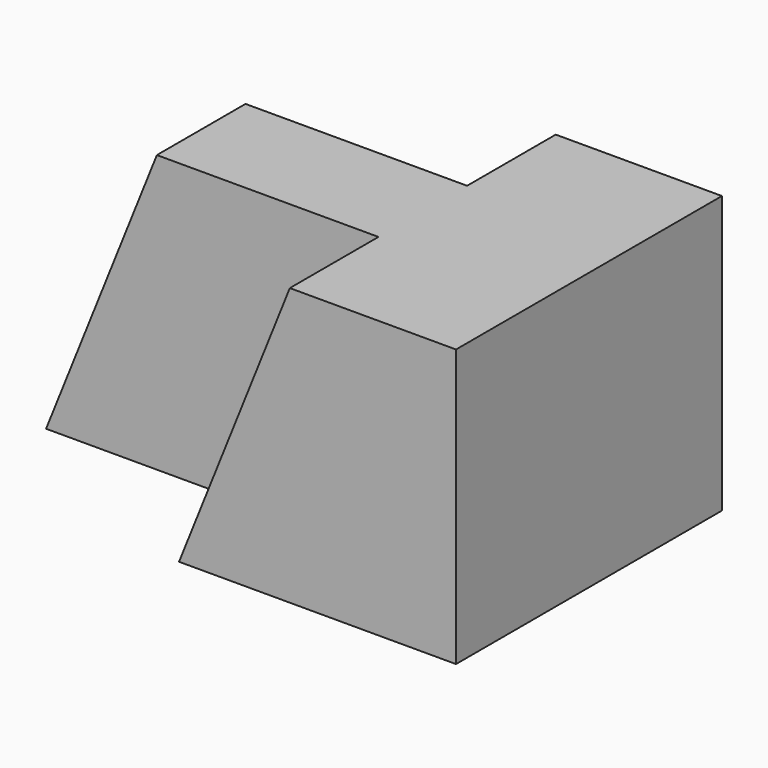
from build123d import *

# Parameters (mm, degrees)
F0_W      = 31.75
F0_H      = 31.75
F1_DEPTH  = 38.1
F2_DEPTH  = 25.4
F3_W      = 12.7
F3_H      = 31.75
F4_DEPTH  = 25.4
F6_DEPTH  = 12.7
F8_DEPTH  = 12.7
F10_DEPTH = 25.401


with BuildPart() as f1:
    # F0 (on Front) → F1 (new body)
    with BuildSketch(Plane.XZ):
        with Locations((15.875, 15.875)):
            Rectangle(F0_W, F0_H)
    extrude(amount=F1_DEPTH)

    # F0 (on Front) → F2 (join)
    with BuildSketch(Plane.XZ):
        with Locations((15.875, 15.875)):
            Rectangle(F0_W, F0_H)
    extrude(amount=F2_DEPTH)

    # F3 (on face) → F4 (join)
    with BuildSketch(Plane(origin=(0, 0, 0), x_dir=(0, -1, 0), z_dir=(-1, 0, 0))):
        with Locations((19.05, 15.875)):
            Rectangle(F3_W, F3_H)
    extrude(amount=F4_DEPTH)

    # F5 (on face) → F6 (cut)
    with BuildSketch(Plane(origin=(0, 0, 0), x_dir=(-1, 0, 0), z_dir=(0, 1, 0))):
        Polygon((-12.7, 31.75), (0, 0), (0, 31.75), align=None)
    extrude(amount=-F6_DEPTH, mode=Mode.SUBTRACT)

    # F7 (on face) → F8 (cut)
    with BuildSketch(Plane.XZ.offset(38.1)):
        Polygon((0, 0), (12.7, 31.75), (0, 31.75), align=None)
    extrude(amount=-F8_DEPTH, mode=Mode.SUBTRACT)

    # F9 (on face) → F10 (cut, through all)
    with BuildSketch(Plane(origin=(0, -12.7, 0), x_dir=(-1, 0, 0), z_dir=(0, 1, 0))):
        Polygon((25.4, 31.75), (12.7, 31.75), (25.4, 0), align=None)
    extrude(amount=-F10_DEPTH, mode=Mode.SUBTRACT)


solid = f1.part
